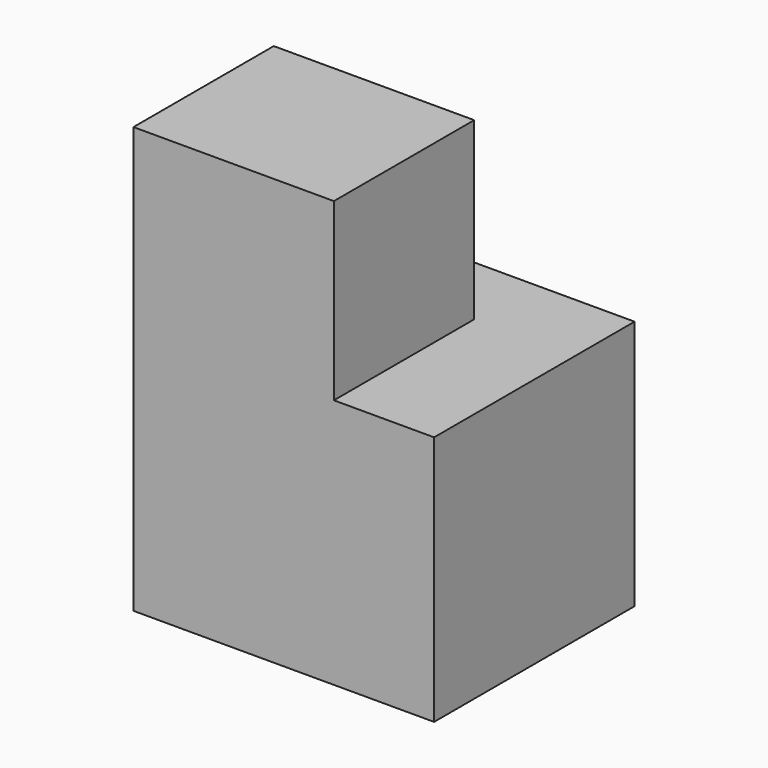
from build123d import *

# Parameters (mm, degrees)
F1_W     = 40
F1_H     = 35
F3_DEPTH = 50
F2_W     = 40
F2_H     = 35
F4_DEPTH = 35


with BuildPart() as f3:
    # F1 (on Top) → F3 (new body)
    with BuildSketch(Plane.XY):
        with Locations((-10, -7.5)):
            Rectangle(F1_W, F1_H)
        Polygon((30, 25), (-30, 25), (-30, 10), (10, 10), (10, -25), (30, -25), align=None)
    extrude(amount=F3_DEPTH)

    # F2 (on offset) → F4 (join)
    with BuildSketch(Plane.XY.offset(50)):
        with Locations((-10, -7.5)):
            Rectangle(F2_W, F2_H)
    extrude(amount=F4_DEPTH)


solid = f3.part
